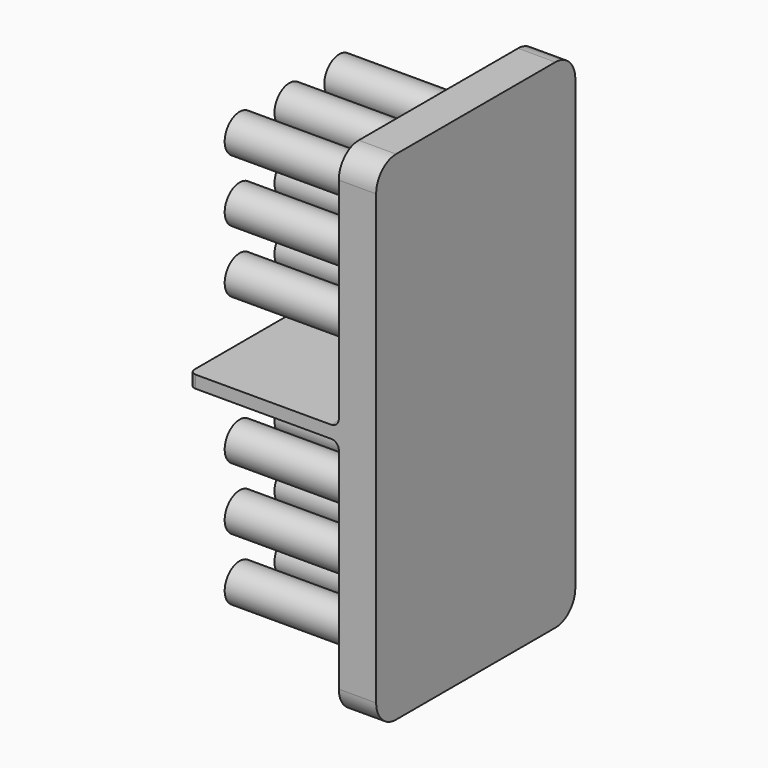
from build123d import *

# Parameters (mm, degrees)
F0_W     = 25.4
F0_H     = 50.8
F1_DEPTH = 3.81
F2_R     = 1.905
F2_W     = 25.4
F2_H     = 1.27
F3_DEPTH = 15.24
F4_R     = 2.54
F5_R     = 0.635
F6_R     = 0.762


with BuildPart() as f1:
    # F0 (on Right) → F1 (new body)
    with BuildSketch(Plane.YZ):
        with Locations((-11.4958, -24.960152)):
            Rectangle(F0_W, F0_H)
    extrude(amount=F1_DEPTH)

    # F2 (on face) → F3 (join)
    with BuildSketch(Plane(origin=(0, 0, 0), x_dir=(0, -1, 0), z_dir=(-1, 0, 0))):
        with Locations((5.096861, -11.771084)):
            Circle(F2_R)
        with Locations((11.446861, -11.771084)):
            Circle(F2_R)
        with Locations((17.796861, -11.771084)):
            Circle(F2_R)
        with Locations((5.096861, -5.421084)):
            Circle(F2_R)
        with Locations((11.446861, -5.421084)):
            Circle(F2_R)
        with Locations((17.796861, -5.421084)):
            Circle(F2_R)
        with Locations((11.4958, -24.960152)):
            Rectangle(F2_W, F2_H)
        with Locations((5.096861, -18.121084)):
            Circle(F2_R)
        with Locations((11.446861, -18.121084)):
            Circle(F2_R)
        with Locations((17.796861, -18.121084)):
            Circle(F2_R)
        with Locations((5.096861, -33.06922)):
            Circle(F2_R)
        with Locations((11.446861, -33.06922)):
            Circle(F2_R)
        with Locations((17.796861, -33.06922)):
            Circle(F2_R)
        with Locations((17.796861, -39.41922)):
            Circle(F2_R)
        with Locations((11.446861, -39.41922)):
            Circle(F2_R)
        with Locations((5.096861, -39.41922)):
            Circle(F2_R)
        with Locations((17.796861, -45.76922)):
            Circle(F2_R)
        with Locations((11.446861, -45.76922)):
            Circle(F2_R)
        with Locations((5.096861, -45.76922)):
            Circle(F2_R)
    extrude(amount=F3_DEPTH)

    # F4
    f4_edges = [f1.edges().sort_by_distance(p)[0] for p in [
        (1.905, -24.1958, -50.360152),
        (1.905, -24.1958, 0.439848),
        (1.905, 1.2042, -50.360152),
        (1.905, 1.2042, 0.439848),
    ]]
    fillet(f4_edges, radius=F4_R)

    # F5
    f5_edges = [f1.edges().sort_by_distance(p)[0] for p in [
        (-15.24, 1.2042, -24.960152),
        (-15.24, -24.1958, -24.960152),
    ]]
    fillet(f5_edges, radius=F5_R)

    # F6
    f6_edges = [f1.edges().sort_by_distance(p)[0] for p in [
        (0, -3.191861, -18.121084),
        (0, -3.191861, -11.771084),
        (0, -3.191861, -5.421084),
        (0, -9.541861, -5.421084),
        (0, -9.541861, -11.771084),
        (0, -15.891861, -11.771084),
        (0, -15.891861, -5.421084),
        (0, -3.191861, -33.06922),
        (0, -9.541861, -18.121084),
        (0, -15.891861, -18.121084),
        (0, -9.541861, -33.06922),
        (0, -15.891861, -33.06922),
        (0, -3.191861, -39.41922),
        (0, -9.541861, -39.41922),
        (0, -15.891861, -39.41922),
        (0, -15.891861, -45.76922),
        (0, -9.541861, -45.76922),
        (0, -3.191861, -45.76922),
        (0, -11.4958, -24.325152),
        (0, -11.4958, -25.595152),
    ]]
    fillet(f6_edges, radius=F6_R)


solid = f1.part
